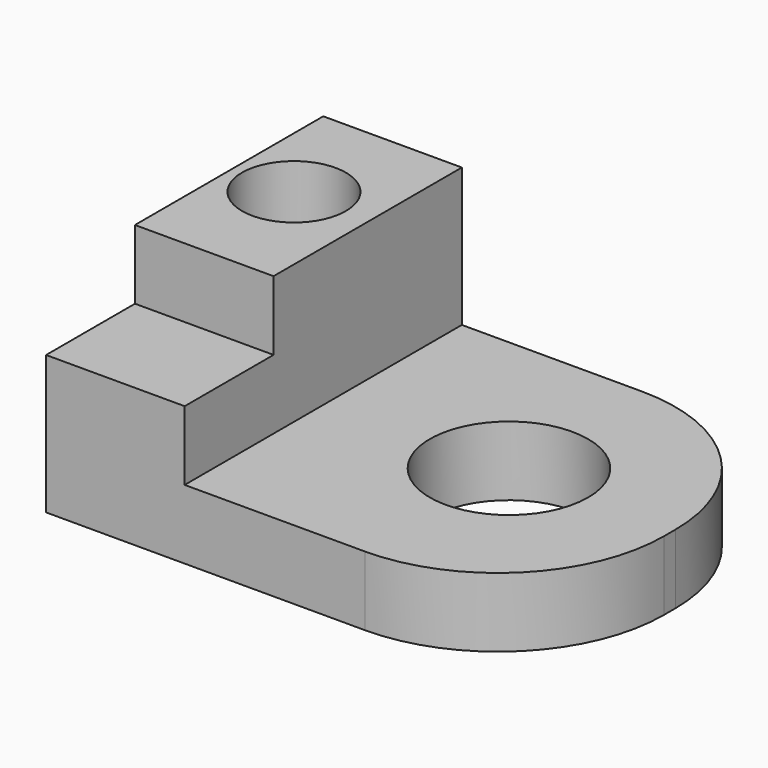
from build123d import *

# Parameters (mm, degrees)
F1_DEPTH = 12.7
F2_W     = 25.4
F2_H     = 63.5
F3_DEPTH = 12.7
F4_W     = 25.4
F4_H     = 43.139062
F5_DEPTH = 12.7
F6_R     = 14.504814
F7_DEPTH = 12.701
F9_D     = 19.05


with BuildPart() as f1:
    # F0 (on Top) → F1 (new body)
    with BuildSketch(Plane.XY):
        with BuildLine():
            ThreePointArc((44.45, 1.27), (35.522615, 22.822615), (13.97, 31.75))
            Line((13.97, 31.75), (-44.45, 31.75))
            Line((-44.45, 31.75), (-44.45, -31.75))
            Line((-44.45, -31.75), (13.97, -31.75))
            ThreePointArc((13.97, -31.75), (35.522615, -22.822615), (44.45, -1.27))
            Line((44.45, -1.27), (44.45, 1.27))
        make_face()
    extrude(amount=F1_DEPTH)

    # F2 (on face) → F3 (join)
    with BuildSketch(Plane.XY.offset(12.7)):
        with Locations((-31.75, 0)):
            Rectangle(F2_W, F2_H)
    extrude(amount=F3_DEPTH)

    # F4 (on face) → F5 (join)
    with BuildSketch(Plane.XY.offset(25.4)):
        with Locations((-31.75, 10.180469)):
            Rectangle(F4_W, F4_H)
    extrude(amount=F5_DEPTH)

    # F6 (on face) → F7 (cut, through all)
    with BuildSketch(Plane.XY.offset(12.7)):
        with Locations((13.97, 1.27)):
            Circle(F6_R)
    extrude(amount=-F7_DEPTH, mode=Mode.SUBTRACT)

    # F9 (through all)
    with Locations(Plane.XY.offset(38.1)):
        with Locations((-33.1011, 10.856021)):
            Hole(F9_D / 2)


solid = f1.part
